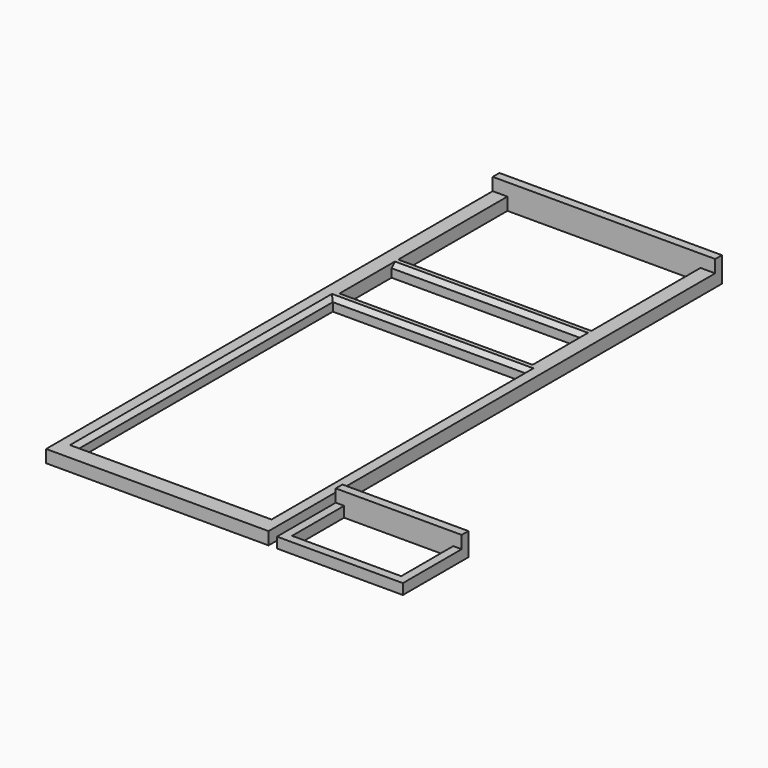
from build123d import *

# Parameters (mm, degrees)
SKETCH_W        = 53
SKETCH_H        = 135
PAD_DEPTH       = 3
SKETCH001_W     = 53
SKETCH001_H     = 2
PAD001_DEPTH    = 3
SKETCH003_W     = 46
SKETCH003_H     = 32.5
SKETCH003_H_2   = 15.5
SKETCH003_H_3   = 76
POCKET001_DEPTH = 5
CHAMFER_SIZE    = 1
SKETCH004_W     = 30
SKETCH004_H     = 19.5
PAD002_DEPTH    = 2.5
SKETCH005_W     = 30
SKETCH005_H     = 2
PAD003_DEPTH    = 3
SKETCH002_W     = 26
SKETCH002_H     = 15.5
POCKET_DEPTH    = 2.501


with BuildPart() as wingtemplate:
    # Sketch → Pad (new body)
    with BuildSketch(Plane.XY):
        with Locations((26.5, 67.5)):
            Rectangle(SKETCH_W, SKETCH_H)
    extrude(amount=PAD_DEPTH)

    # Sketch001 (on Face6 of Pad) → Pad001 (join)
    with BuildSketch(Plane.XY.offset(3)):
        with Locations((26.5, 134)):
            Rectangle(SKETCH001_W, SKETCH001_H)
    extrude(amount=PAD001_DEPTH)

    # Sketch003 (on Face3 of Pad001) → Pocket001 (cut)
    with BuildSketch(Plane.XY.offset(3)):
        with Locations((26.5, 116.75)):
            Rectangle(SKETCH003_W, SKETCH003_H)
        with Locations((26.5, 90.75)):
            Rectangle(SKETCH003_W, SKETCH003_H_2)
        with Locations((26.5, 43)):
            Rectangle(SKETCH003_W, SKETCH003_H_3)
    extrude(amount=-POCKET001_DEPTH, mode=Mode.SUBTRACT)

    # Chamfer
    chamfer_edges = [wingtemplate.edges().sort_by_distance(p)[0] for p in [
        (26.5, 98.5, 3),
        (26.5, 81, 3),
        (26.5, 5, 3),
        (49.5, 43, 3),
        (3.5, 43, 3),
    ]]
    chamfer(chamfer_edges, length=CHAMFER_SIZE)


with BuildPart() as obj1:
    # Sketch004 → Pad002 (new body)
    with BuildSketch(Plane.XY):
        with Locations((15, 9.75)):
            Rectangle(SKETCH004_W, SKETCH004_H)
    extrude(amount=PAD002_DEPTH)

    # Sketch005 (on Face6 of Pad002) → Pad003 (join)
    with BuildSketch(Plane.XY.offset(2.5)):
        with Locations((15, 18.5)):
            Rectangle(SKETCH005_W, SKETCH005_H)
    extrude(amount=PAD003_DEPTH)

    # Sketch002 (on Face3 of Pad003) → Pocket (cut, through all)
    with BuildSketch(Plane.XY.offset(2.5)):
        with Locations((15, 9.75)):
            Rectangle(SKETCH002_W, SKETCH002_H)
    extrude(amount=-POCKET_DEPTH, mode=Mode.SUBTRACT)


with BuildPart() as obj1_1:
    # Body001 placement: moved
    add(obj1.part.moved(Location((55, 0, 0))))


solid = Compound([wingtemplate.part, obj1_1.part])
